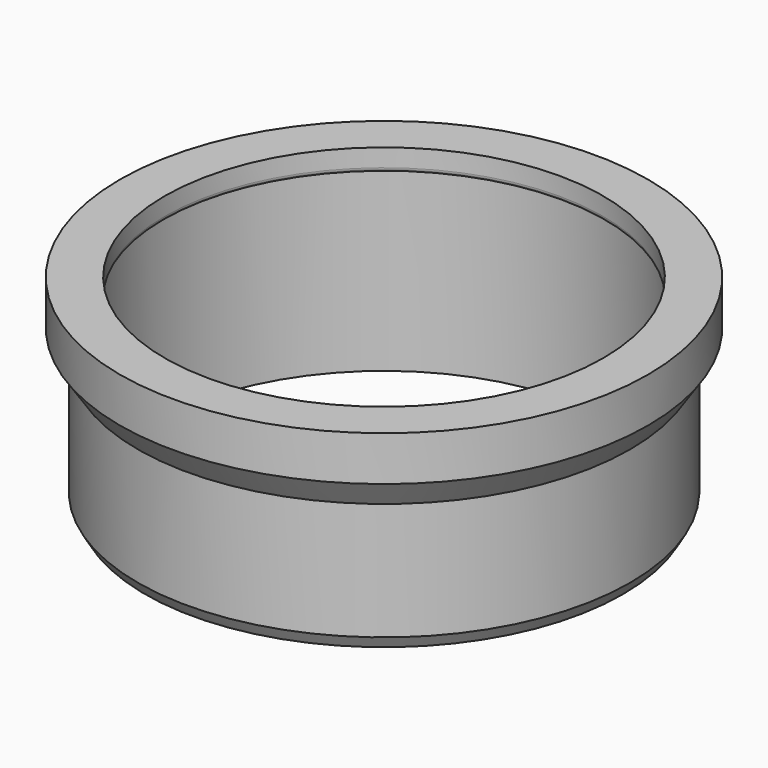
from build123d import *


with BuildPart() as f1:
    # F0 (on Front) → F1 (revolve)
    with BuildSketch(Plane.XZ):
        with BuildLine():
            Line((29.5, -12.868648), (24.5, -12.868648))
            Line((24.5, -12.868648), (24.5, -14.868648))
            ThreePointArc((24.5, -14.868648), (24.646447, -15.222201), (25, -15.368648))
            Line((25, -15.368648), (25.5, -15.368648))
            Line((25.5, -15.368648), (25.5, -35.368648))
            Line((25.5, -35.368648), (26.7, -35.368648))
            Line((26.7, -35.368648), (27.5, -33.983007))
            Line((27.5, -33.983007), (27.5, -20.868648))
            Line((27.5, -20.868648), (29.5, -17.868648))
            Line((29.5, -17.868648), (29.5, -12.868648))
        make_face()
    revolve(axis=Axis((0, 0, 5.618644), (0, 0, -1)))


solid = f1.part
